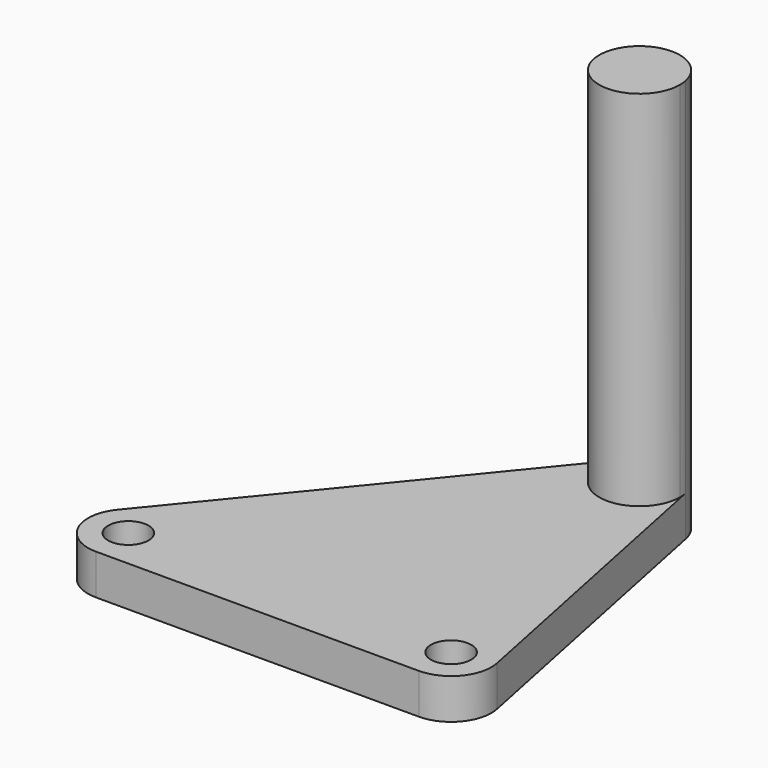
from build123d import *

# Parameters (mm, degrees)
F0_R     = 2.5
F1_DEPTH = 5
F2_DEPTH = 50


with BuildPart() as f1:
    # F0 (on Top) → F1 (new body)
    with BuildSketch(Plane.XY):
        with BuildLine():
            Line((60, -5), (100, -5))
            ThreePointArc((100, -5), (103.872983, -3.162278), (104.898979, 1))
            Line((104.898979, 1), (96.898979, 40.191836))
            ThreePointArc((96.898979, 40.191836), (96.974681, 39.694381), (97, 39.191836))
            ThreePointArc((97, 39.191836), (90.321447, 34.48201), (88.127017, 42.354114))
            Line((88.127017, 42.354114), (56.127017, 3.162278))
            ThreePointArc((56.127017, 3.162278), (55.482734, -2.143433), (60, -5))
        make_face()
        with Locations((60, 0)):
            Circle(F0_R, mode=Mode.SUBTRACT)
        with Locations((100, 0)):
            Circle(F0_R, mode=Mode.SUBTRACT)
    extrude(amount=F1_DEPTH)

    # F0 (on Top) → F2 (join)
    with BuildSketch(Plane.XY):
        with BuildLine():
            ThreePointArc((97, 39.191836), (96.974681, 39.694381), (96.898979, 40.191836))
            ThreePointArc((96.898979, 40.191836), (93.196674, 44.046521), (88.127017, 42.354114))
            ThreePointArc((88.127017, 42.354114), (90.321447, 34.48201), (97, 39.191836))
        make_face()
    extrude(amount=F2_DEPTH)


solid = f1.part
